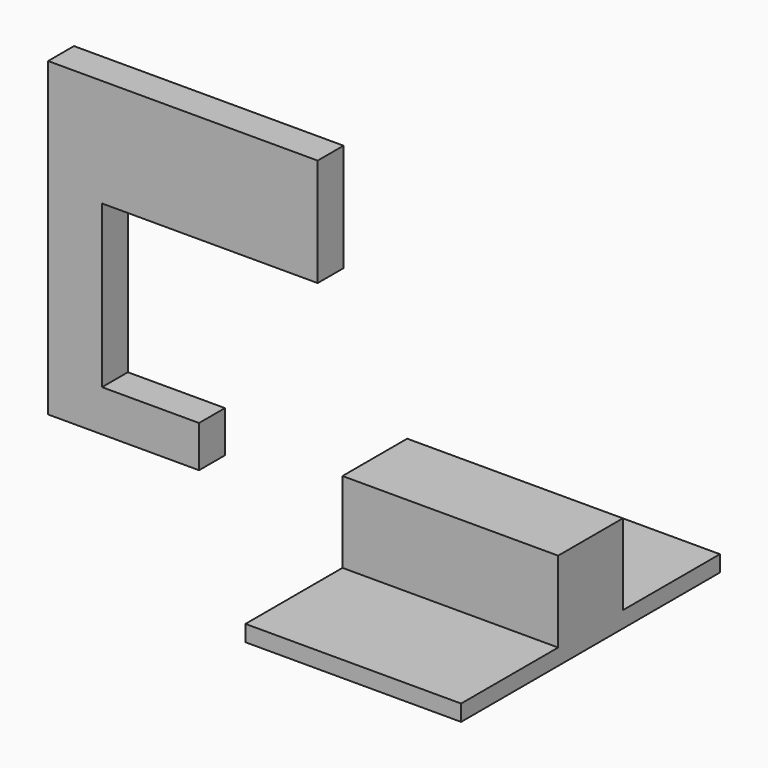
from build123d import *

# Parameters (mm, degrees)
F0_W      = 50.8
F0_H      = 76.2
F1_DEPTH  = 3.81
F2_W      = 50.8
F2_H      = 19.05
F3_DEPTH  = 19.05
F4_W      = 11.43
F4_H      = 15.24
F5_DEPTH  = 27.178
F6_W      = 35.56
F6_H      = 9.7971428186
F7_DEPTH  = 7.62
F8_W      = 12.7
F8_H      = 7.62
F9_DEPTH  = 63.5
F10_W     = 7.62
F10_H     = 25.4
F11_DEPTH = 50.8


with BuildPart() as f1:
    # F0 (on Top) → F1 (new body)
    with BuildSketch(Plane.XY):
        with Locations((-36.3166012526, 25.1197018608)):
            Rectangle(F0_W, F0_H)
    extrude(amount=F1_DEPTH)

    # F2 (on face) → F3 (join)
    with BuildSketch(Plane.XY.offset(3.81)):
        with Locations((-36.3166012526, 25.1197018608)):
            Rectangle(F2_W, F2_H)
    extrude(amount=F3_DEPTH)

    # F4 (on face) → F5 (cut)
    with BuildSketch(Plane(origin=(-61.7166012526, 0, 0), x_dir=(0, -1, 0), z_dir=(-1, 0, 0))):
        with Locations((-25.1197018608, 11.43)):
            Rectangle(F4_W, F4_H)
    extrude(amount=-F5_DEPTH, mode=Mode.SUBTRACT)


with BuildPart() as f7:
    # F6 (on face) → F7 (new body)
    with BuildSketch(Plane.XZ.offset(-30.8347018608)):
        with Locations((-119.38, 12.8814289346)):
            Rectangle(F6_W, F6_H)
        with Locations((-119.38, 12.8814289346)):
            Rectangle(F6_W, F6_H)
    extrude(amount=F7_DEPTH)

    # F8 (on face) → F9 (join)
    with BuildSketch(Plane.XY.offset(17.7800003439)):
        with Locations((-130.81, 27.0247018608)):
            Rectangle(F8_W, F8_H)
    extrude(amount=F9_DEPTH)

    # F10 (on face) → F11 (join)
    with BuildSketch(Plane.YZ.offset(-124.46)):
        with Locations((27.0247018608, 68.5800003439)):
            Rectangle(F10_W, F10_H)
    extrude(amount=F11_DEPTH)


solid = Compound([f1.part, f7.part])
